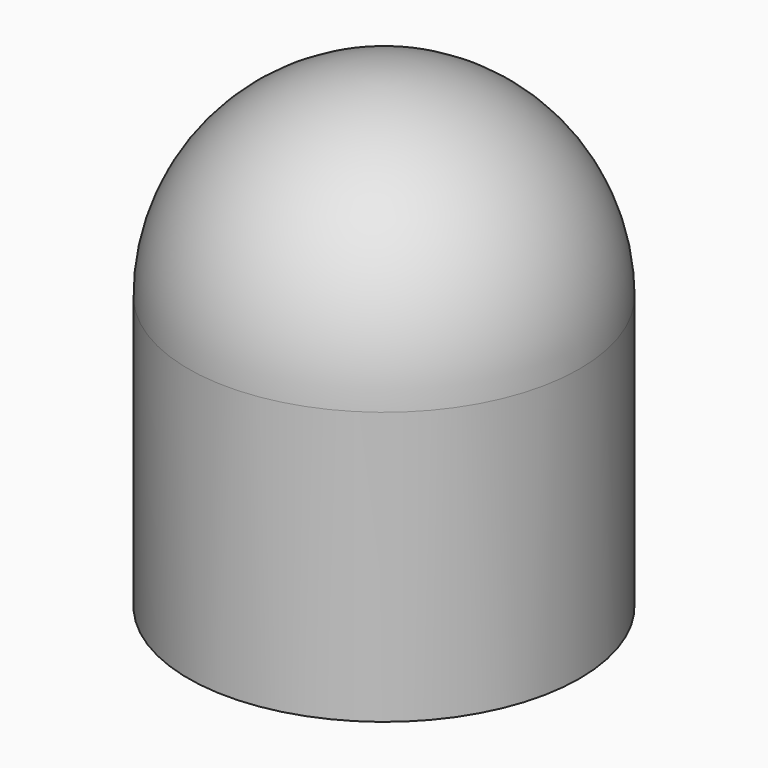
from build123d import *


with BuildPart() as f1:
    # F0 (on Front) → F1 (revolve)
    with BuildSketch(Plane.XZ):
        with BuildLine():
            Line((-5.6, 0), (-5.2, 0))
            Line((-5.2, 0), (-5.2, 7.8))
            ThreePointArc((-5.2, 7.8), (-3.6769552622, 11.4769552622), (0, 13))
            Line((0, 13), (0, 13.4))
            ThreePointArc((0, 13.4), (-3.9597979746, 11.7597979746), (-5.6, 7.8))
            Line((-5.6, 7.8), (-5.6, 0))
        make_face()
    revolve(axis=Axis((0, 0, 9.5699511951), (0, 0, 1)))


solid = f1.part
